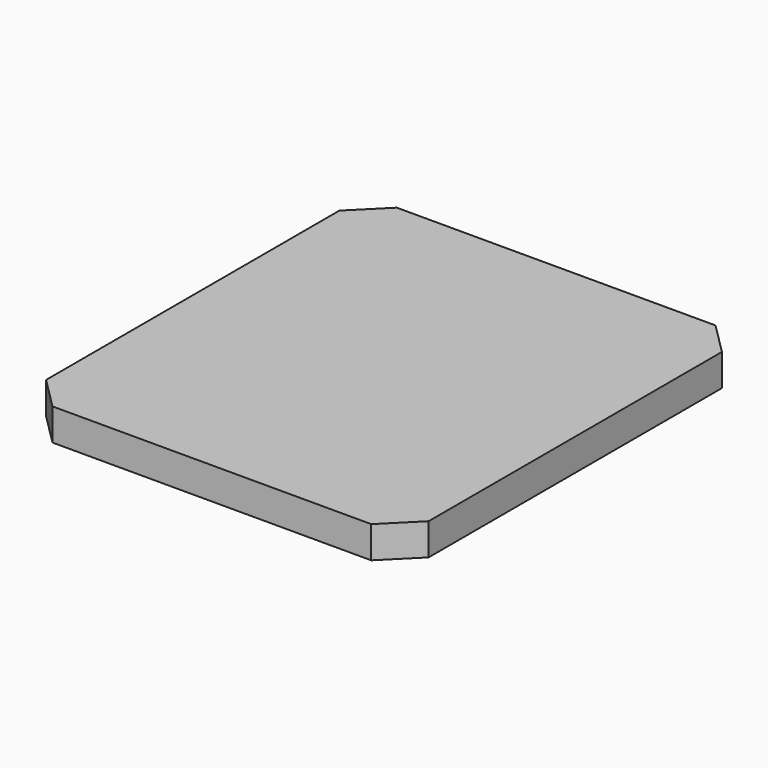
from build123d import *

# Parameters (mm, degrees)
F0_W     = 24
F0_H     = 27
F1_DEPTH = 2
F2_SIZE  = 2


with BuildPart() as f1:
    # F0 (on Top) → F1 (new body)
    with BuildSketch(Plane.XY):
        Rectangle(F0_W, F0_H)
    extrude(amount=F1_DEPTH)

    # F2
    f2_edges = [f1.edges().sort_by_distance(p)[0] for p in [
        (-12, 13.5, 1),
        (-12, -13.5, 1),
        (12, -13.5, 1),
        (12, 13.5, 1),
    ]]
    chamfer(f2_edges, length=F2_SIZE)


solid = f1.part
